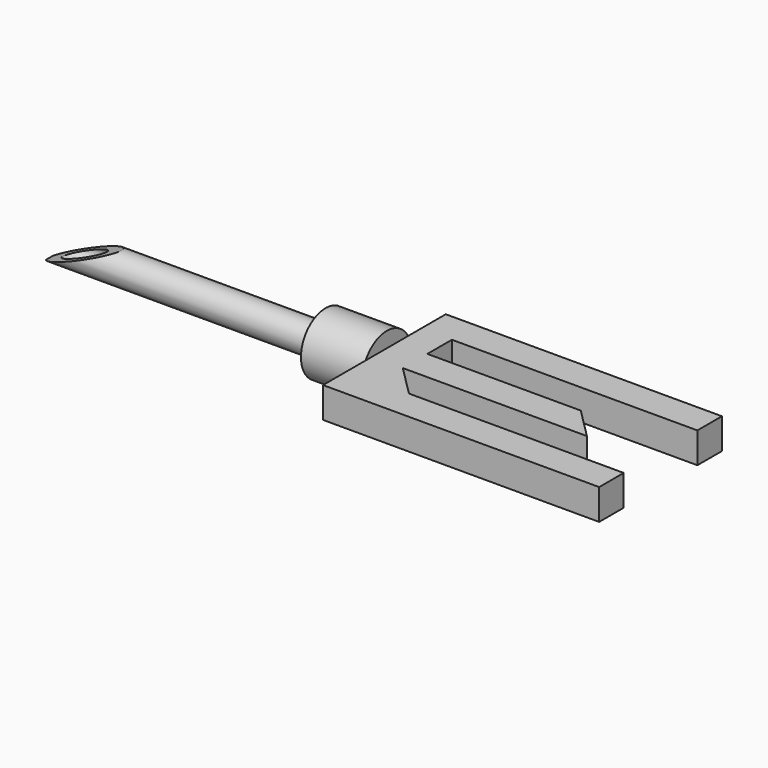
from build123d import *

# Parameters (mm, degrees)
F1_DEPTH = 5
F2_R     = 5
F3_DEPTH = 10
F4_R     = 2.5
F4_R_2   = 1.5
F5_DEPTH = 45
F7_DEPTH = 25


with BuildPart() as f1:
    # F0 (on Top) → F1 (new body)
    with BuildSketch(Plane.XY):
        Polygon((-45, 0), (0, 0), (0, 5), (-35, 5), (-40, 10), (-10, 10), (-15, 15), (-40, 15), (-40, 20), (0, 20), (0, 25), (-45, 25), align=None)
    extrude(amount=F1_DEPTH)

    # F2 (on face) → F3 (join)
    with BuildSketch(Plane(origin=(-45, 0, 0), x_dir=(0, -1, 0), z_dir=(-1, 0, 0))):
        with Locations((-13, 2.5)):
            Circle(F2_R)
    extrude(amount=F3_DEPTH)

    # F4 (on face) → F5 (join)
    with BuildSketch(Plane(origin=(-55, 0, 0), x_dir=(0, -1, 0), z_dir=(-1, 0, 0))):
        with Locations((-13, 2.5)):
            Circle(F4_R)
        with Locations((-13, 2.5)):
            Circle(F4_R_2, mode=Mode.SUBTRACT)
    extrude(amount=F5_DEPTH)

    # F6 (on face) → F7 (cut)
    with BuildSketch(Plane.XZ):
        Polygon((-100.207202, 5.022824), (-100.207202, 0), (-88.150322, 5.022824), align=None)
    extrude(amount=-F7_DEPTH, mode=Mode.SUBTRACT)


solid = f1.part
